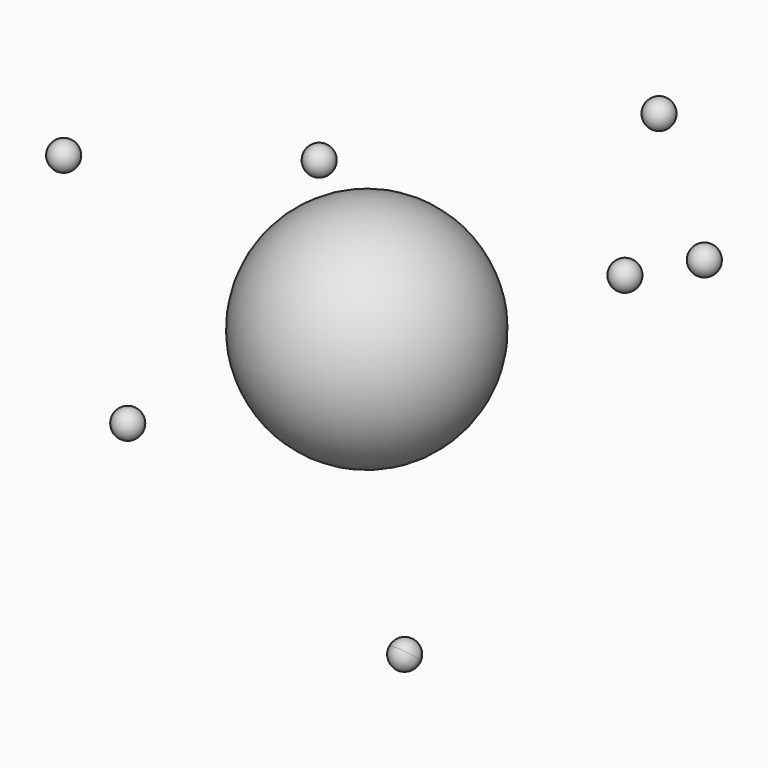
from build123d import *


with BuildPart() as f5:
    # F4 (on Top) → F5 (revolve)
    with BuildSketch(Plane.XY):
        with BuildLine():
            ThreePointArc((0, 20), (-20, 0), (0, -20))
            Line((0, -20), (0, 20))
        make_face()
    revolve(axis=Axis((0, 0, 0), (0, 1, 0)))


with BuildPart() as f7:
    # F6 (on Top) → F7 (revolve)
    with BuildSketch(Plane.XY):
        with BuildLine():
            Line((24.110353, 44.080218), (24.110353, 46.580218))
            Line((24.110353, 46.580218), (24.110353, 49.080218))
            ThreePointArc((24.110353, 49.080218), (21.610353, 46.580218), (24.110353, 44.080218))
        make_face()
    revolve(axis=Axis((24.110353, 46.580218, 0), (0, 1, 0)))


with BuildPart() as f9:
    # F8 (on face) → F9 (revolve)
    with BuildSketch(Plane(origin=(0, 0, 0), x_dir=(-1, 0, 0), z_dir=(0, 0.707107, 0.707107))):
        with BuildLine():
            ThreePointArc((31.32733, 44.57363), (28.82733, 42.07363), (31.32733, 39.57363))
            Line((31.32733, 39.57363), (31.32733, 44.57363))
        make_face()
    revolve(axis=Axis((-31.32733, -29.750549, 29.750549), (0, -0.707107, 0.707107)))


with BuildPart() as f11:
    # F10 (on face) → F11 (revolve)
    with BuildSketch(Plane(origin=(0, 0, 0), x_dir=(1, 0, 0), z_dir=(0, -0.707107, 0.707107))):
        with BuildLine():
            Line((28.262269, 46.462087), (28.262269, 43.962087))
            Line((28.262269, 43.962087), (28.262269, 41.462087))
            ThreePointArc((28.262269, 41.462087), (30.762269, 43.962087), (28.262269, 46.462087))
        make_face()
    revolve(axis=Axis((28.262269, 31.08589, 31.08589), (0, 0.707107, 0.707107)))


with BuildPart() as f13:
    # F12 (on Front) → F13 (revolve)
    with BuildSketch(Plane.XZ):
        with BuildLine():
            ThreePointArc((-43.476675, -26.689503), (-45.976675, -29.189503), (-43.476675, -31.689503))
            Line((-43.476675, -31.689503), (-43.476675, -26.689503))
        make_face()
    revolve(axis=Axis((-43.476675, 0, -29.189503), (0, 0, 1)))


with BuildPart() as f15:
    # F14 (on Top) → F15 (revolve)
    with BuildSketch(Plane.XY):
        with BuildLine():
            ThreePointArc((-37.774503, 38.886468), (-40.274503, 36.386468), (-37.774503, 33.886468))
            Line((-37.774503, 33.886468), (-37.774503, 38.886468))
        make_face()
    revolve(axis=Axis((-37.774503, 36.386468, 0), (0, 1, 0)))


with BuildPart() as f17:
    # F16 (on face) → F17 (revolve)
    with BuildSketch(Plane(origin=(0, 0, 0), x_dir=(1, 0, 0), z_dir=(0, -0.707107, 0.707107))):
        with BuildLine():
            ThreePointArc((30.784842, -44.758576), (32.552609, -44.026343), (33.284842, -42.258576))
            ThreePointArc((33.284842, -42.258576), (32.552609, -40.490809), (30.784842, -39.758576))
            Line((30.784842, -39.758576), (30.784842, -44.758576))
        make_face()
    revolve(axis=Axis((30.784842, -29.881325, -29.881325), (0, 0.707107, 0.707107)))


with BuildPart() as f19:
    # F18 (on Front) → F19 (revolve)
    with BuildSketch(Plane.XZ):
        with BuildLine():
            ThreePointArc((46.929311, 26.407878), (44.429311, 23.907878), (46.929311, 21.407878))
            Line((46.929311, 21.407878), (46.929311, 26.407878))
        make_face()
    revolve(axis=Axis((46.929311, 0, 23.907878), (0, 0, 1)))


solid = Compound([f5.part, f7.part, f9.part, f11.part, f13.part, f15.part, f17.part, f19.part])
